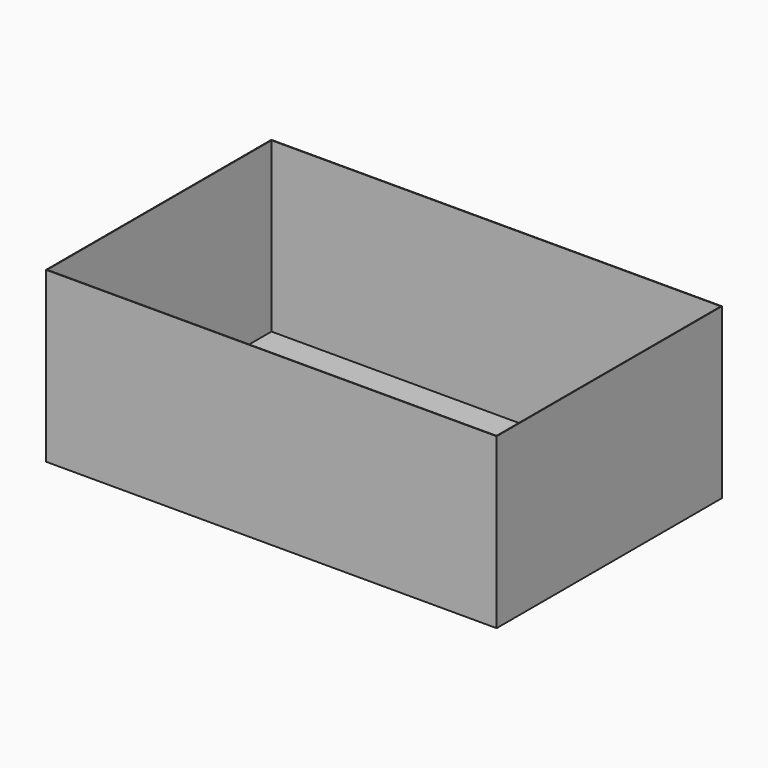
from build123d import *

# Parameters (mm, degrees)
F0_W     = 800
F0_H     = 500
F1_DEPTH = 300
F2_T     = -1
F4_DEPTH = 798


with BuildPart() as f1:
    # F0 (on Top) → F1 (new body)
    with BuildSketch(Plane.XY):
        with Locations((400, 250)):
            Rectangle(F0_W, F0_H)
    extrude(amount=F1_DEPTH)

    # F2
    f2_openings = [f1.faces().sort_by_distance(p)[0] for p in [
        (400, 250, 300),
    ]]
    offset(amount=F2_T, openings=f2_openings)


with BuildPart() as f4:
    # F3 (on Right) → F4 (new body)
    with BuildSketch(Plane.YZ):
        Polygon((-25, 0), (0, 0), (0, 2), (-23, 2), (-23, 25), (-25, 25), align=None)
    extrude(amount=F4_DEPTH)


solid = f1.part
